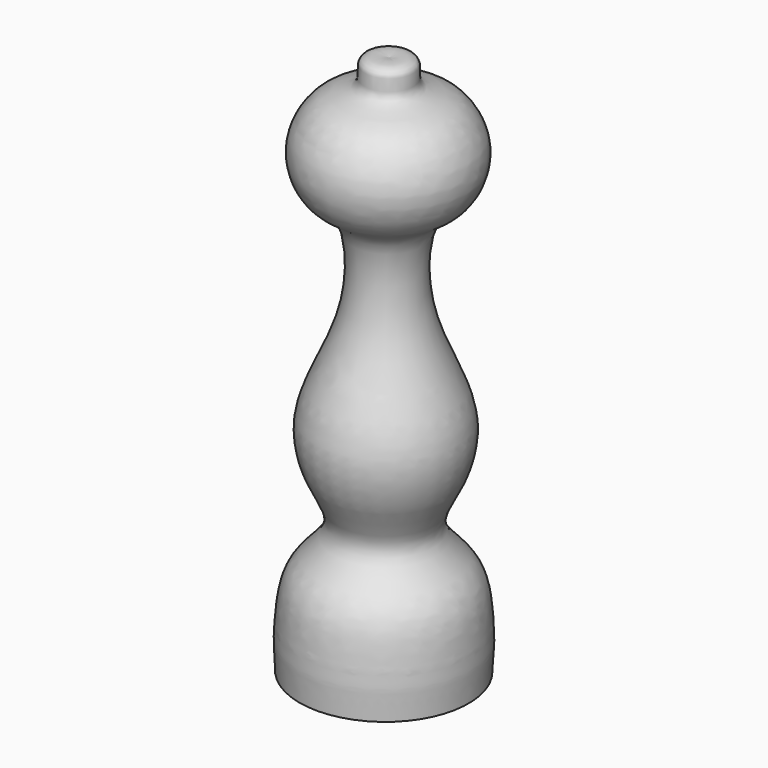
from build123d import *


with BuildPart() as f1:
    # F0 (on Front) → F1 (revolve)
    with BuildSketch(Plane.XZ):
        with BuildLine():
            add(Edge.make_bspline(
                [(-32.2412423925, -42.7977676785), (-32.4184408718, -37.0273699215), (-32.5464916533, -37.8289958945), (-32.1028019844, -29.2886432939), (-30.4508364873, -21.9920911658), (-21.3285466637, -15.4088310502), (-27.7934427197, -5.9655711443), (-29.9798866492, 4.7142050421), (-26.0198251976, 14.3740957222), (-21.5167970937, 23.8151281911), (-20.3657769984, 31.5590105515), (-20.2497867469, 36.9658643092), (-21.3340721955, 43.9574842052), (-26.9156744697, 46.6450914288), (-29.9209649452, 51.4989172305), (-30.8508955184, 58.5577788151), (-25.7656594564, 66.94297813), (-16.8435941273, 67.5223368629), (-19.3537058985, 74.3774750617), (-14.176858713, 74.0178117826), (-12.8397606313, 73.6651793122)],
                knots=[0, 0, 0, 0, 0.0526318136, 0.1046894628, 0.1625469489, 0.2244238397, 0.2879832332, 0.3554455865, 0.4211689733, 0.4879741536, 0.5445949919, 0.5927930415, 0.6449818703, 0.6941190485, 0.7419262229, 0.7954963089, 0.8576244881, 0.911812394, 0.9544423351, 1, 1, 1, 1], degree=3))
            Line((-32.2412423925, -42.7977676785), (-13.9733850956, -42.7977676785))
            Line((-13.9733850956, -42.7977676785), (-12.8397606313, 73.6651793122))
        make_face()
    revolve(axis=Axis((-13.4065728635, 0, 15.4337058169), (0.0097333169, 0, 0.9999526301)))


solid = f1.part
